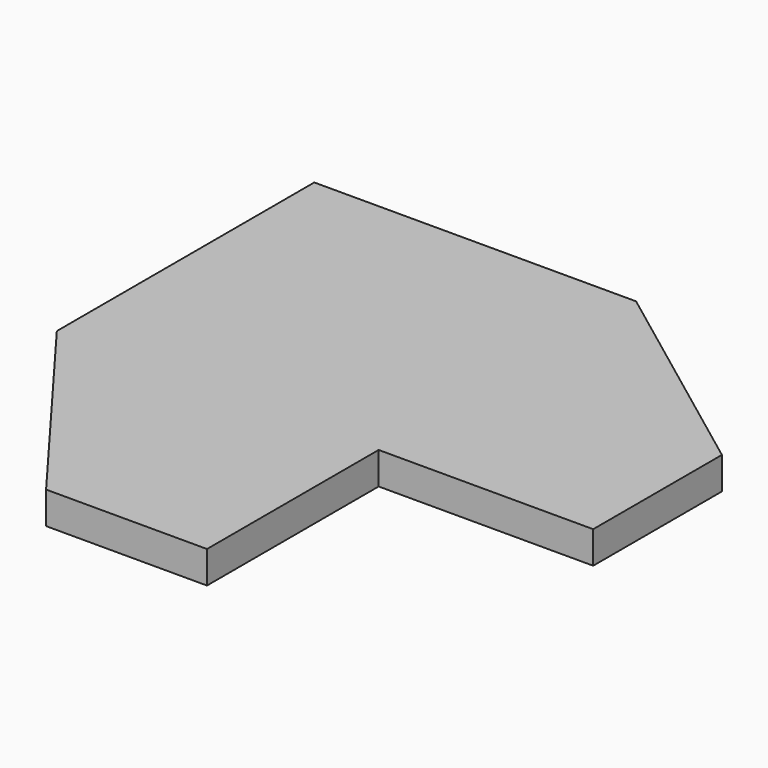
from build123d import *

# Parameters (mm, degrees)
F0_W     = 15
F0_H     = 15
F0_W_2   = 20
F0_H_2   = 20
F1_DEPTH = 3


with BuildPart() as f1:
    # F0 (on Top) → F1 (new body)
    with BuildSketch(Plane.XY):
        Polygon((-30, 0), (-15, 0), (-15, 15), (0, 15), (0, 30), (-30, 30), align=None)
        with Locations((-7.5, 7.5)):
            Rectangle(F0_W, F0_H)
        with Locations((10, 7.5)):
            Rectangle(F0_W_2, F0_H)
        with Locations((-7.5, -10)):
            Rectangle(F0_W, F0_H_2)
        Polygon((0, 30), (0, 15), (20, 15), align=None)
        Polygon((-15, -20), (-15, 0), (-30, 0), align=None)
    extrude(amount=F1_DEPTH)


solid = f1.part
